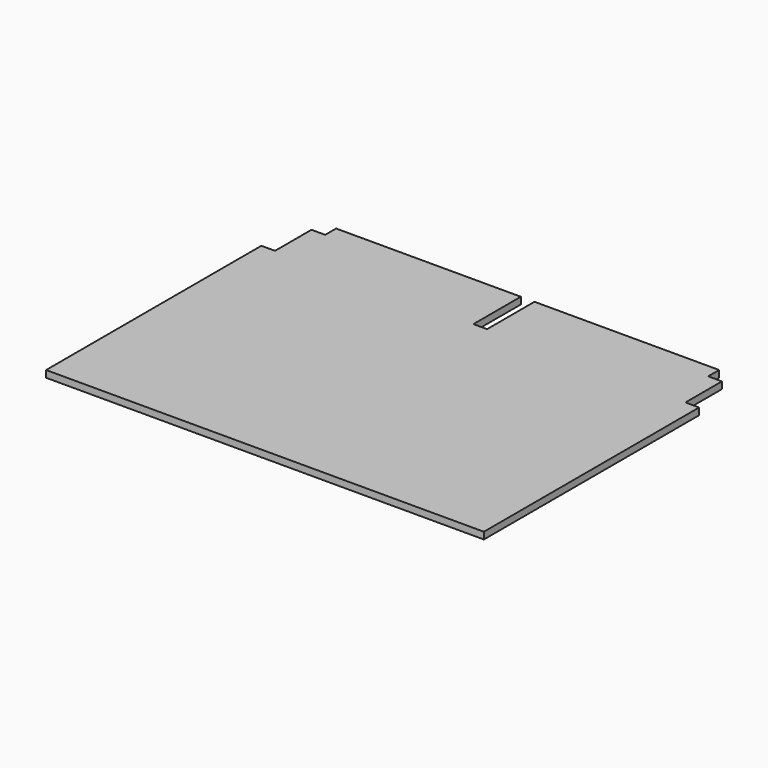
from build123d import *

# Parameters (mm, degrees)
F1_DEPTH = 19.05


with BuildPart() as f1:
    # F0 (on Top) → F1 (new body)
    with BuildSketch(Plane.XY):
        Polygon((-19.05, 539.75), (-533.4, 539.75), (-533.4, 501.65), (-571.5, 501.65), (-571.5, 374.65), (-609.6, 374.65), (-609.6, -374.65), (609.6, -374.65), (609.6, 374.65), (571.5, 374.65), (571.5, 501.65), (533.4, 501.65), (533.4, 539.75), (19.05, 539.75), (19.05, 374.65), (-19.05, 374.65), align=None)
    extrude(amount=F1_DEPTH)


solid = f1.part
